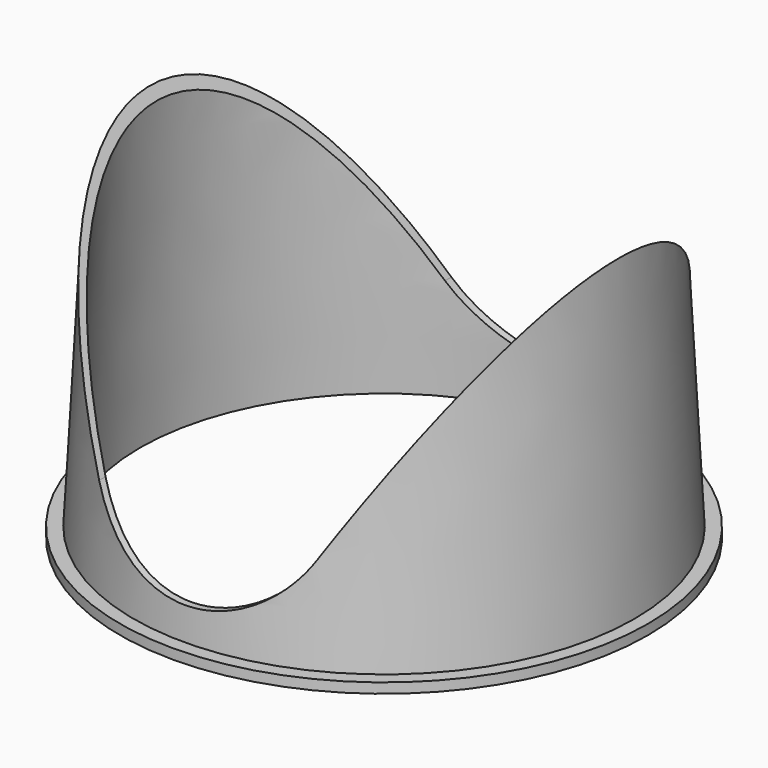
from build123d import *

# Parameters (mm, degrees)
F0_R     = 30
F1_DEPTH = 40
F1_TAPER = 3
F2_T     = -0.85
F3_R     = 31.5488335059
F3_R_2   = 29.1488335059
F4_DEPTH = 1.2
F6_DEPTH = 32.5


with BuildPart() as f1:
    # F0 (on Top) → F1 (new body)
    with BuildSketch(Plane.XY):
        Circle(F0_R)
    extrude(amount=F1_DEPTH, taper=F1_TAPER)

    # F2
    f2_openings = [f1.faces().sort_by_distance(p)[0] for p in [
        (0, 0, 40),
        (0, 0, 0),
    ]]
    offset(amount=F2_T, openings=f2_openings)

    # F3 (on Top) → F4 (join)
    with BuildSketch(Plane.XY):
        Circle(F3_R)
        Circle(F3_R_2, mode=Mode.SUBTRACT)
    extrude(amount=F4_DEPTH)

    # F5 (on Front) → F6 (cut, symmetric)
    with BuildSketch(Plane.XZ):
        with BuildLine():
            Line((28.8675134595, 40), (-28.8675134595, 40))
            Line((-28.8675134595, 40), (-12.9903810568, 12.5))
            ThreePointArc((-12.9903810568, 12.5), (0, 5), (12.9903810568, 12.5))
            Line((12.9903810568, 12.5), (28.8675134595, 40))
        make_face()
    extrude(amount=F6_DEPTH, both=True, mode=Mode.SUBTRACT)


solid = f1.part
